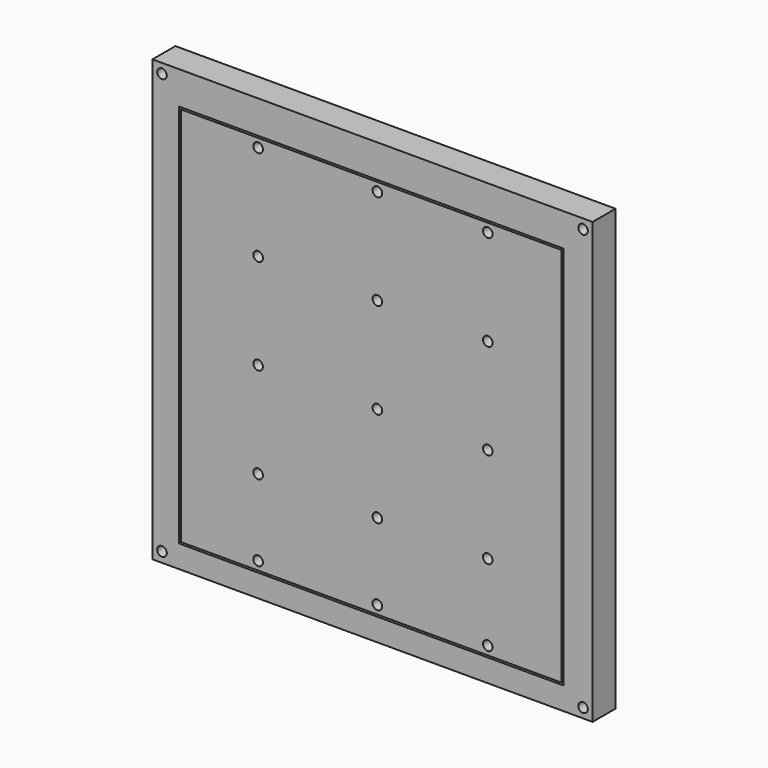
from build123d import *

# Parameters (mm, degrees)
F0_W     = 201
F0_H     = 201
F0_W_2   = 199
F0_H_2   = 199
F1_DEPTH = 2
F0_W_3   = 230
F0_H_3   = 230
F0_R     = 2.5
F2_DEPTH = 15


with BuildPart() as f1:
    # F0 (on Front) → F1 (new body)
    with BuildSketch(Plane.XZ):
        with Locations((-3.184716, 112.03872)):
            Rectangle(F0_W, F0_H)
        with Locations((-3.184716, 112.03872)):
            Rectangle(F0_W_2, F0_H_2, mode=Mode.SUBTRACT)
    extrude(amount=F1_DEPTH)

    # F0 (on Front) → F2 (join)
    with BuildSketch(Plane.XZ):
        with Locations((-2.539473, 114.729389)):
            Rectangle(F0_W_3, F0_H_3)
        with Locations((-112.539473, 5)):
            Circle(F0_R, mode=Mode.SUBTRACT)
        with Locations((-3.184716, 112.03872)):
            Rectangle(F0_W, F0_H, mode=Mode.SUBTRACT)
        with Locations((107.460527, 4.729389)):
            Circle(F0_R, mode=Mode.SUBTRACT)
        with Locations((-112.539473, 224.729389)):
            Circle(F0_R, mode=Mode.SUBTRACT)
        with Locations((107.460527, 224.729389)):
            Circle(F0_R, mode=Mode.SUBTRACT)
        with Locations((-3.184716, 112.03872)):
            Rectangle(F0_W_2, F0_H_2)
        with Locations((-62.305588, 17.03872)):
            Circle(F0_R, mode=Mode.SUBTRACT)
        with Locations((-62.305588, 57.03872)):
            Circle(F0_R, mode=Mode.SUBTRACT)
        with Locations((-62.305588, 107.03872)):
            Circle(F0_R, mode=Mode.SUBTRACT)
        with Locations((0, 17.03872)):
            Circle(F0_R, mode=Mode.SUBTRACT)
        with Locations((0, 57.03872)):
            Circle(F0_R, mode=Mode.SUBTRACT)
        with Locations((57.69576, 17.03872)):
            Circle(F0_R, mode=Mode.SUBTRACT)
        with Locations((57.69576, 57.03872)):
            Circle(F0_R, mode=Mode.SUBTRACT)
        with Locations((0, 107.03872)):
            Circle(F0_R, mode=Mode.SUBTRACT)
        with Locations((57.69576, 107.03872)):
            Circle(F0_R, mode=Mode.SUBTRACT)
        with Locations((-62.305588, 157.03872)):
            Circle(F0_R, mode=Mode.SUBTRACT)
        with Locations((-62.305588, 207.03872)):
            Circle(F0_R, mode=Mode.SUBTRACT)
        with Locations((0, 157.03872)):
            Circle(F0_R, mode=Mode.SUBTRACT)
        with Locations((57.69576, 157.03872)):
            Circle(F0_R, mode=Mode.SUBTRACT)
        with Locations((0, 207.03872)):
            Circle(F0_R, mode=Mode.SUBTRACT)
        with Locations((57.69576, 207.03872)):
            Circle(F0_R, mode=Mode.SUBTRACT)
    extrude(amount=F2_DEPTH)


solid = f1.part
